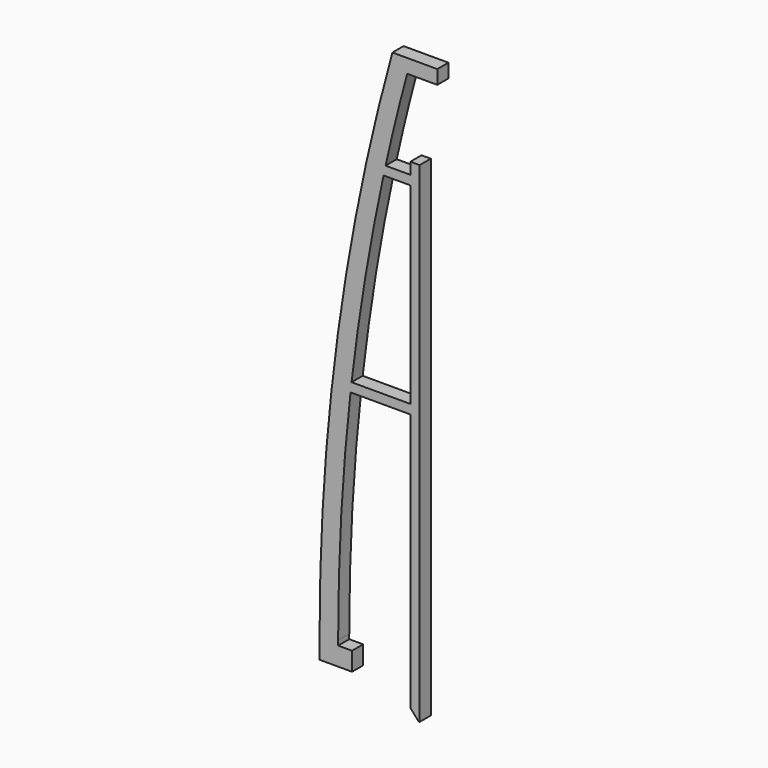
from build123d import *

# Parameters (mm, degrees)
F1_DEPTH = 6
F2_SIZE2 = 4
F2_SIZE  = 3.5
F3_DEPTH = 6
F4_DEPTH = 2


with BuildPart() as f1:
    # F0 (on Front) → F1 (new body)
    with BuildSketch(Plane.XZ):
        with BuildLine():
            Line((-17.2, 235), (-4.2, 235))
            Line((-4.2, 235), (-4.2, 241))
            Line((-4.2, 241), (-23.5591068412, 241))
            ThreePointArc((-23.5591068412, 241), (-47.1037067536, 126.5649280043), (-55, 10))
            Line((-55, 10), (-55, 0))
            Line((-55, 0), (-47, 0))
            Line((-47, 0), (-47, 10))
            ThreePointArc((-47, 10), (-45.6626874065, 58.0616713196), (-41.6548879545, 105.9746152759))
            Line((-41.6548879545, 105.9746152759), (-15.8, 105.9746152759))
            Line((-15.8, 105.9746152759), (-15.8, -9.5547260733))
            Line((-15.8, -9.5547260733), (-11.8, -9.5547260733))
            Line((-11.8, -9.5547260733), (-11.8, 197.0380991697))
            Line((-11.8, 197.0380991697), (-11.8, 202.0380991697))
            Line((-11.8, 202.0380991697), (-15.8, 202.0380991697))
            Line((-15.8, 202.0380991697), (-15.8, 197.0380991697))
            Line((-15.8, 197.0380991697), (-26.5197448355, 197.0380991697))
            ThreePointArc((-26.5197448355, 197.0380991697), (-22.0745066899, 216.0717428538), (-17.2, 235))
        make_face()
        with BuildLine():
            ThreePointArc((-41.198523154, 109.9746152759), (-35.3095909069, 151.6745341907), (-27.396421331, 193.0380991697))
            Line((-27.396421331, 193.0380991697), (-15.8, 193.0380991697))
            Line((-15.8, 193.0380991697), (-15.8, 109.9746152759))
            Line((-15.8, 109.9746152759), (-41.198523154, 109.9746152759))
        make_face(mode=Mode.SUBTRACT)
    extrude(amount=F1_DEPTH)

    # F2
    f2_edges = [f1.edges().sort_by_distance(p)[0] for p in [
        (-15.8, -3, -9.554726),
    ]]
    f2_side = f1.faces().sort_by_distance((-13.8, -3, -9.554726))[0]
    chamfer(f2_edges, length=F2_SIZE, length2=F2_SIZE2, reference=f2_side)

    # F3 (add): a face of the model
    f3_faces = [f1.faces().sort_by_distance(p)[0] for p in [
        (-47, -3, 5),
    ]]
    extrude(f3_faces, amount=F3_DEPTH)

    # F4 (cut): a face of the model
    f4_faces = [f1.faces().sort_by_distance(p)[0] for p in [
        (-44, -3, 10),
    ]]
    extrude(f4_faces, amount=-F4_DEPTH, mode=Mode.SUBTRACT)


solid = f1.part
